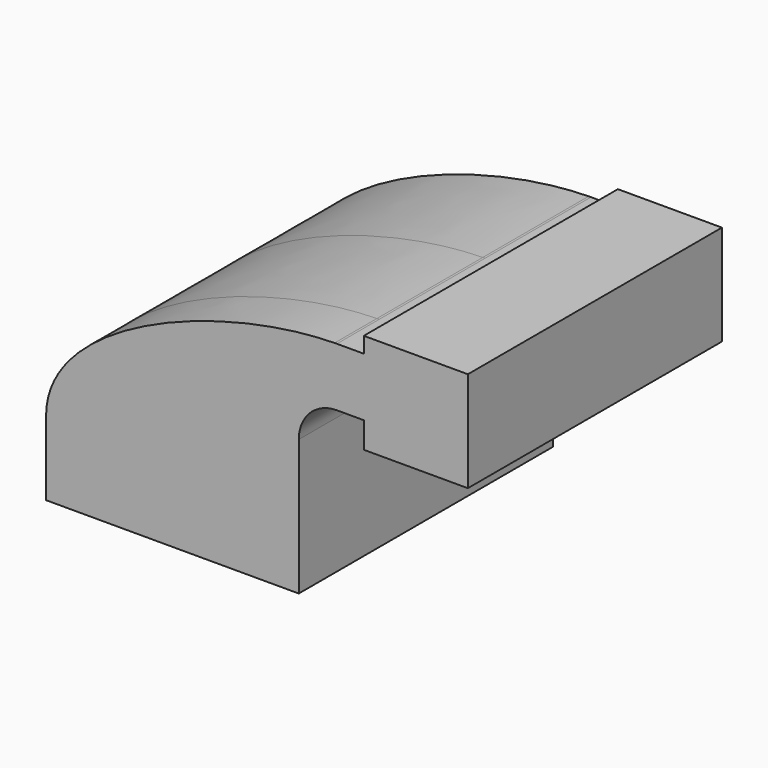
from build123d import *

# Parameters (mm, degrees)
F1_DEPTH = 63.5
F2_DEPTH = 25.4


with BuildPart() as f1:
    # F0 (on Front) → F1 (new body, symmetric)
    with BuildSketch(Plane.XZ):
        Polygon((32.5450152159, 17.832884565), (-60.6318004429, 17.832884565), (-60.6318004429, -17.832884565), (60.6318004429, -17.832884565), (60.6318004429, 17.832884565), align=None)
        with BuildLine():
            add(Edge.make_bspline(
                [(-60.6318004429, 17.832884565), (-60.6318004429, 61.2353339805), (22.5209403524, 92.7588235763), (77.8183062777, 93.6149536292)],
                knots=[0, 0, 0, 0, 157.7558964073, 157.7558964073, 157.7558964073, 157.7558964073], degree=3))
            Line((-60.6318004429, 17.832884565), (32.5450152159, 17.832884565))
            Line((32.5450152159, 17.832884565), (32.5450152159, 47.2571402788))
            ThreePointArc((32.5450152159, 47.2571402788), (45.7409490947, 79.6558969764), (77.8183062777, 93.6149536292))
        make_face()
        with BuildLine():
            Line((32.5450152159, 47.2571402788), (32.5450152159, 17.832884565))
            Line((32.5450152159, 17.832884565), (60.6318004429, 17.832884565))
            Line((60.6318004429, 17.832884565), (60.6318004429, 47.2571402788))
            ThreePointArc((60.6318004429, 47.2571402788), (65.9870653267, 60.1858933913), (78.9158184392, 65.5411582751))
            Line((78.9158184392, 65.5411582751), (91.8393731117, 65.5411582751))
            Line((91.8393731117, 65.5411582751), (91.8393731117, 93.6279435021))
            Line((91.8393731117, 93.6279435021), (78.9158184392, 93.6279435021))
            add(Edge.make_bspline(
                [(77.8183062777, 93.6149536292), (78.1853819601, 93.6206368027), (78.5512301713, 93.6249685923), (78.9158184392, 93.6279435021)],
                knots=[157.7558964073, 157.7558964073, 157.7558964073, 157.7558964073, 158.8031136186, 158.8031136186, 158.8031136186, 158.8031136186], degree=3))
            ThreePointArc((77.8183062777, 93.6149536292), (45.7409490947, 79.6558969764), (32.5450152159, 47.2571402788))
        make_face()
        Polygon((91.8393731117, 101.2016236782), (91.8393731117, 93.6279435021), (91.8393731117, 65.5411582751), (91.8393731117, 53.0528277159), (116.8053969741, 53.0528277159), (115.8868363911, 101.2016236782), align=None)
        Polygon((141.7714208364, 101.2016236782), (115.8868363911, 101.2016236782), (116.8053969741, 53.0528277159), (141.7714208364, 53.0528277159), align=None)
    extrude(amount=F1_DEPTH, both=True)

    # F2 (add): a face of the model
    f2_faces = [f1.faces().sort_by_distance(p)[0] for p in [
        (29.5018045328, -63.5, 40.2654083308),
    ]]
    extrude(f2_faces, amount=F2_DEPTH)


solid = f1.part
